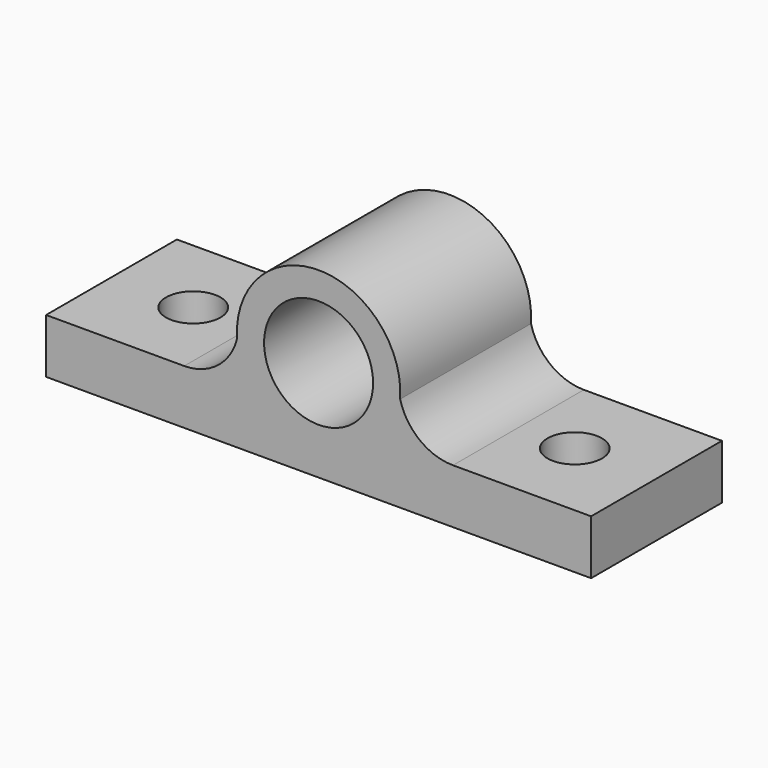
from build123d import *

# Parameters (mm, degrees)
F0_R     = 12.7
F1_DEPTH = 38.1
F2_R     = 6.35
F3_DEPTH = 25.4


with BuildPart() as f1:
    # F0 (on Front) → F1 (new body)
    with BuildSketch(Plane.XZ):
        with BuildLine():
            Line((-63.5, 12.7), (-63.5, 0))
            Line((-63.5, 0), (63.5, 0))
            Line((63.5, 0), (63.5, 12.7))
            Line((63.5, 12.7), (31.315128, 12.7))
            ThreePointArc((31.315128, 12.7), (23.522863, 15.37151), (19.008884, 22.26211))
            ThreePointArc((19.008884, 22.26211), (0, 42.563047), (-19.008884, 22.26211))
            ThreePointArc((-19.008884, 22.26211), (-23.522863, 15.37151), (-31.315128, 12.7))
            Line((-31.315128, 12.7), (-63.5, 12.7))
        make_face()
        with Locations((0, 23.513047)):
            Circle(F0_R, mode=Mode.SUBTRACT)
    extrude(amount=-F1_DEPTH)

    # F2 (on face) → F3 (cut)
    with BuildSketch(Plane.XY.offset(12.7)):
        with Locations((-44.45, 19.05)):
            Circle(F2_R)
        with Locations((44.45, 19.05)):
            Circle(F2_R)
    extrude(amount=-F3_DEPTH, mode=Mode.SUBTRACT)


solid = f1.part
